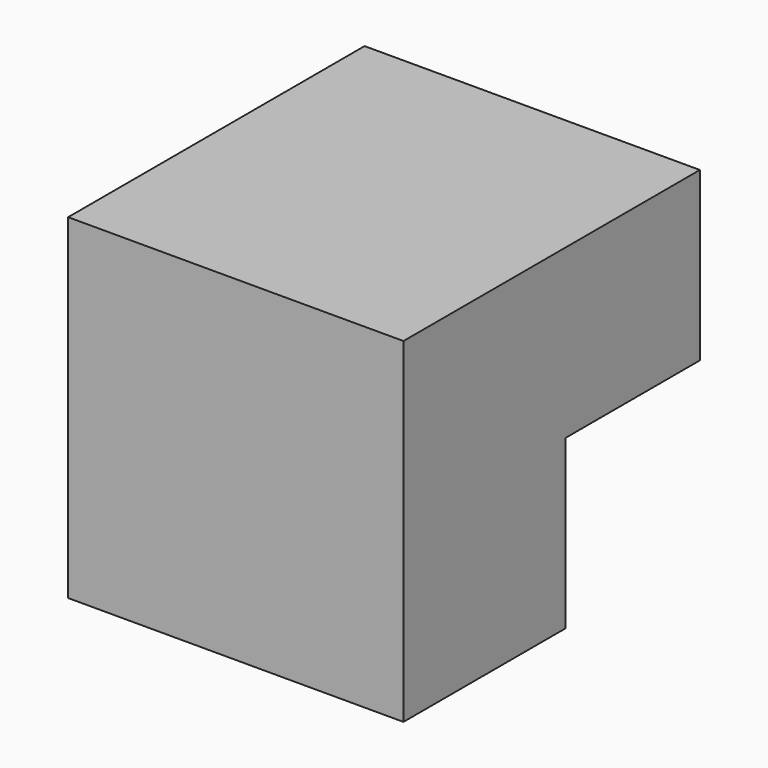
from build123d import *

# Parameters (mm, degrees)
F0_W     = 50.8
F0_H     = 50.8
F1_DEPTH = 56.134
F2_W     = 25.4
F2_H     = 25.4
F3_DEPTH = 25.4


with BuildPart() as f1:
    # F0 (on Front) → F1 (new body)
    with BuildSketch(Plane.XZ):
        Rectangle(F0_W, F0_H)
    extrude(amount=-F1_DEPTH)

    # F2 (on face) → F3 (cut)
    with BuildSketch(Plane(origin=(0, 56.134, 0), x_dir=(-1, 0, 0), z_dir=(0, 1, 0))):
        with Locations((-12.7, -12.7)):
            Rectangle(F2_W, F2_H)
    extrude(amount=-F3_DEPTH, mode=Mode.SUBTRACT)


solid = f1.part
